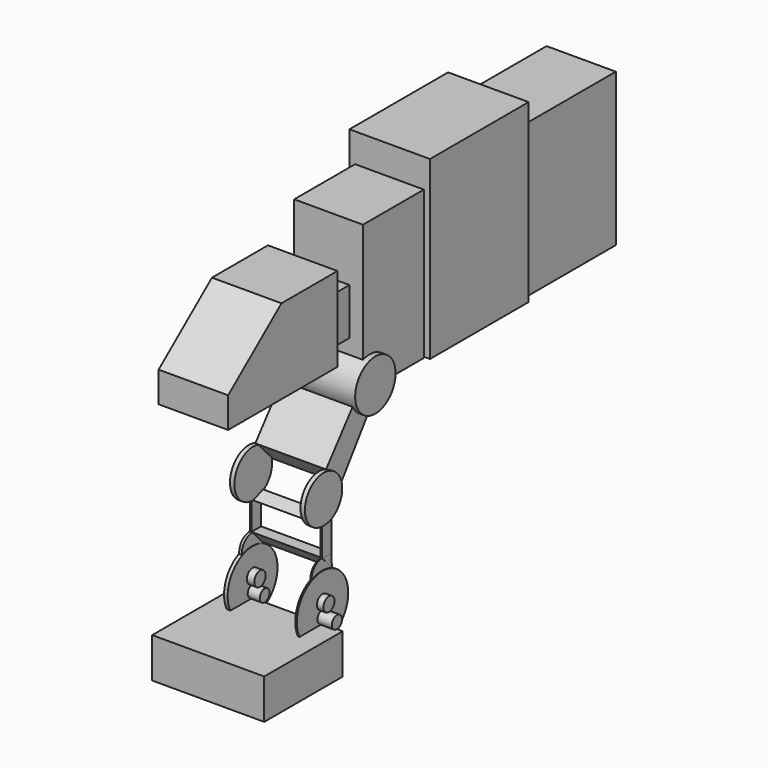
from build123d import *

# Parameters (mm, degrees)
F0_W           = 116.3119599223
F0_H           = 41.522635147
F1_DEPTH       = 101.854
F2_W           = 31.8097397685
F2_H           = 6.5562054515
F2_W_2         = 28.4102298319
F2_H_2         = 6.3133835793
F4_W           = 18.9671367407
F4_H           = 7.4513759464
F4_W_2         = 14.9027481675
F4_H_2         = 7.2255767882
F6_W           = 3.6759376526
F6_H           = 29.6372557059
F6_W_2         = 1.608222723
F6_H_2         = 33.3131942898
F8_W           = 2.7569532394
F8_H           = 13.3252739906
F8_W_2         = 1.1487305164
F8_H_2         = 11.946797371
F10_W          = 1.608222723
F10_H          = 29.4075123966
F11_DEPTH      = 12.446
F10_H_2        = 29.8670083284
F12_W          = 4.578076303
F12_H          = 24.5061889291
F12_W_2        = 4.5780874789
F12_H_2        = 24.2368876934
F15_DEPTH      = 35.052
F15_DEPTH_BACK = 40.64
F17_DEPTH      = 39.878
F17_DEPTH_BACK = 33.528
F18_R          = 26.2083289981
F19_DEPTH      = 44.958
F19_DEPTH_BACK = 37.592
F20_W          = 78.9941027761
F20_H          = 153.9520323277
F21_DEPTH      = 39.116
F21_DEPTH_BACK = 32.258
F22_W          = 128.0050724745
F22_H          = 182.7819943428
F23_DEPTH      = 45.466
F23_DEPTH_BACK = 38.1
F24_W          = 119.3560659885
F24_H          = 158.5648357868
F25_DEPTH      = 39.624
F25_DEPTH_BACK = 32.258
F26_W          = 33.4427561611
F26_H          = 48.4343320131
F27_DEPTH      = 25.4
F27_DEPTH_BACK = 18.542
F29_DEPTH      = 39.116
F29_DEPTH_BACK = 33.02


with BuildPart() as f1:
    # F0 (on Front) → F1 (new body)
    with BuildSketch(Plane.XZ):
        with Locations((4.0065683424, -47.3503777757)):
            Rectangle(F0_W, F0_H)
    extrude(amount=F1_DEPTH)

    # F2 (on Front) → F3 (revolve)
    with BuildSketch(Plane.XZ):
        with Locations((40.2297079563, -23.5537793487)):
            Rectangle(F2_W, F2_H)
        with Locations((-33.1026744097, -23.4323684126)):
            Rectangle(F2_W_2, F2_H_2)
    revolve(axis=Axis((-33.1026744097, 0, -20.275676623), (1, 0, 0)))


with BuildPart() as f5:
    # F4 (on Front) → F5 (revolve)
    with BuildSketch(Plane.XZ):
        with Locations((-33.2190059125, -10.2963354439)):
            Rectangle(F4_W, F4_H)
    revolve(axis=Axis((-33.2190059125, 0, -6.5706474707), (1, 0, 0)))


with BuildPart() as f5b:
    # F4 (on Front) → F5, piece 2 (revolve)
    with BuildSketch(Plane.XZ):
        with Locations((40.3915531933, -10.1834358647)):
            Rectangle(F4_W_2, F4_H_2)
    revolve(axis=Axis((-33.2190059125, 0, -6.5706474707), (1, 0, 0)))


with BuildPart() as f7:
    # F6 (on Front) → F7 (revolve)
    with BuildSketch(Plane.XZ):
        with Locations((-33.2778468728, 5.7841050439)):
            Rectangle(F6_W, F6_H)
    revolve(axis=Axis((40.355797857, 0, -11.7914769799), (1, 0, 0)))


with BuildPart() as f7b:
    # F6 (on Front) → F7, piece 2 (revolve)
    with BuildSketch(Plane.XZ):
        with Locations((40.355797857, 4.8651201651)):
            Rectangle(F6_W_2, F6_H_2)
    revolve(axis=Axis((40.355797857, 0, -11.7914769799), (1, 0, 0)))


with BuildPart() as f9:
    # F8 (on Front) → F9 (revolve)
    with BuildSketch(Plane.XZ):
        with Locations((-33.2778468728, 26.1166393757)):
            Rectangle(F8_W, F8_H)
    revolve(axis=Axis((-33.2778468728, 0, 19.4540023804), (1, 0, 0)))


with BuildPart() as f9b:
    # F8 (on Front) → F9, piece 2 (revolve)
    with BuildSketch(Plane.XZ):
        with Locations((39.8963056505, 26.8058776855)):
            Rectangle(F8_W_2, F8_H_2)
    revolve(axis=Axis((-33.2778468728, 0, 19.4540023804), (1, 0, 0)))


with BuildPart() as f11:
    # F10 (on Front) → F11 (new body)
    with BuildSketch(Plane.XZ):
        with Locations((-33.3927199244, 47.9425285012)):
            Rectangle(F10_W, F10_H)
    extrude(amount=-F11_DEPTH)


with BuildPart() as f11b:
    # F10 (on Front) → F11, piece 2 (new body)
    with BuildSketch(Plane.XZ):
        with Locations((39.8963056505, 47.7127805352)):
            Rectangle(F10_W, F10_H_2)
    extrude(amount=-F11_DEPTH)


with BuildPart() as f13:
    # F12 (on Front) → F13 (revolve)
    with BuildSketch(Plane.XZ):
        with Locations((-33.0021753907, 75.1772858202)):
            Rectangle(F12_W, F12_H)
    revolve(axis=Axis((-33.0021753907, 0, 87.4303802848), (1, 0, 0)))


with BuildPart() as f13b:
    # F12 (on Front) → F13, piece 2 (revolve)
    with BuildSketch(Plane.XZ):
        with Locations((39.9777796119, 75.3119364381)):
            Rectangle(F12_W_2, F12_H_2)
    revolve(axis=Axis((-33.0021753907, 0, 87.4303802848), (1, 0, 0)))

    # F16 (on Right) → F17 (join, two sides)
    with BuildSketch(Plane.YZ) as f17_sk:
        Polygon((56.3351027668, 174.2997467518), (6.1709606089, 111.4504113793), (25.198739022, 90.692833066), (73.6330896616, 158.154964447), align=None)
    extrude(amount=F17_DEPTH)
    extrude(f17_sk.sketch, amount=-F17_DEPTH_BACK)

    # F18 (on Right) → F19 (join, two sides)
    with BuildSketch(Plane.YZ) as f19_sk:
        with Locations((63.830897212, 166.8039560318)):
            Circle(F18_R)
    extrude(amount=F19_DEPTH)
    extrude(f19_sk.sketch, amount=-F19_DEPTH_BACK)

    # F20 (on Right) → F21 (join, two sides)
    with BuildSketch(Plane.YZ) as f21_sk:
        with Locations((94.5375673473, 238.0139678717)):
            Rectangle(F20_W, F20_H)
    extrude(amount=F21_DEPTH)
    extrude(f21_sk.sketch, amount=-F21_DEPTH_BACK)

    # F22 (on Right) → F23 (join, two sides)
    with BuildSketch(Plane.YZ) as f23_sk:
        with Locations((198.0371549726, 253.582149744)):
            Rectangle(F22_W, F22_H)
    extrude(amount=F23_DEPTH)
    extrude(f23_sk.sketch, amount=-F23_DEPTH_BACK)


with BuildPart() as f15:
    # F14 (on Right) → F15 (new body, two sides)
    with BuildSketch(Plane.YZ) as f15_sk:
        Polygon((12.5808566809, 33.3080738783), (0, 33.3080738783), (12.5808566809, 19.538397619), align=None)
    extrude(amount=-F15_DEPTH)
    extrude(f15_sk.sketch, amount=F15_DEPTH_BACK)


with BuildPart() as f15b:
    # F14 (on Right) → F15, piece 2 (new body, two sides)
    with BuildSketch(Plane.YZ) as f15_2_sk:
        Polygon((12.5808566809, 67.7258933343), (0, 62.7542436123), (12.5808566809, 62.7542436123), align=None)
    extrude(amount=-F15_DEPTH)
    extrude(f15_2_sk.sketch, amount=F15_DEPTH_BACK)


with BuildPart() as f25:
    # F24 (on Right) → F25 (new body, two sides)
    with BuildSketch(Plane.YZ) as f25_sk:
        with Locations((322.8114396334, 242.6267713308)):
            Rectangle(F24_W, F24_H)
    extrude(amount=F25_DEPTH)
    extrude(f25_sk.sketch, amount=-F25_DEPTH_BACK)


with BuildPart() as f27:
    # F26 (on Right) → F27 (new body, two sides)
    with BuildSketch(Plane.YZ) as f27_sk:
        with Locations((37.8732094541, 231.3830778003)):
            Rectangle(F26_W, F26_H)
    extrude(amount=F27_DEPTH)
    extrude(f27_sk.sketch, amount=-F27_DEPTH_BACK)

    # F28 (on Right) → F29 (join, two sides)
    with BuildSketch(Plane.YZ) as f29_sk:
        Polygon((21.9247117639, 198.5169202089), (21.9247117639, 255.6002438068), (21.9247117639, 286.1600220203), (-50.7268160582, 286.1600220203), (-119.9187487364, 230.2298843861), (-119.9187487364, 198.5169202089), align=None)
    extrude(amount=F29_DEPTH)
    extrude(f29_sk.sketch, amount=-F29_DEPTH_BACK)


solid = Compound([f1.part, f5.part, f5b.part, f7.part, f7b.part, f9.part, f9b.part, f11.part, f11b.part, f13.part, f13b.part, f15.part, f15b.part, f25.part, f27.part])
